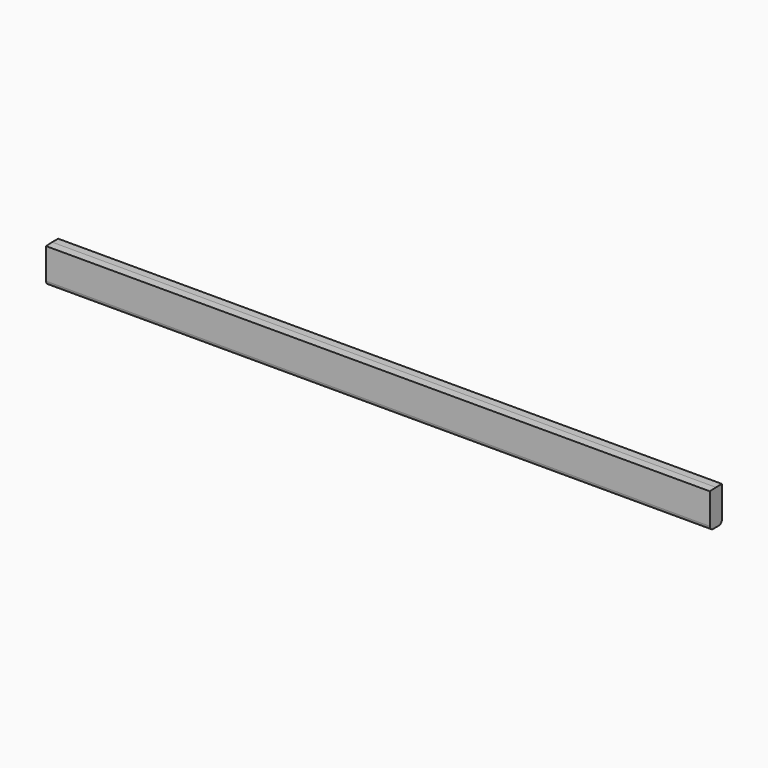
from build123d import *

# Parameters (mm, degrees)
F1_DEPTH      = 419.1
F1_DEPTH_BACK = 419.1
F2_R          = 5.08


with BuildPart() as f1:
    # F0 (on Right) → F1 (new body, two sides)
    with BuildSketch(Plane.YZ) as f1_sk:
        Polygon((-9.525, 25.573289), (-9.525, -18.358187), (9.525, -18.358187), (9.525, 26.091813), (0, 26.091813), align=None)
    extrude(amount=F1_DEPTH)
    extrude(f1_sk.sketch, amount=-F1_DEPTH_BACK)

    # F2
    f2_edges = [f1.edges().sort_by_distance(p)[0] for p in [
        (0, -9.525, -18.358187),
        (0, 9.525, -18.358187),
    ]]
    fillet(f2_edges, radius=F2_R)


solid = f1.part
